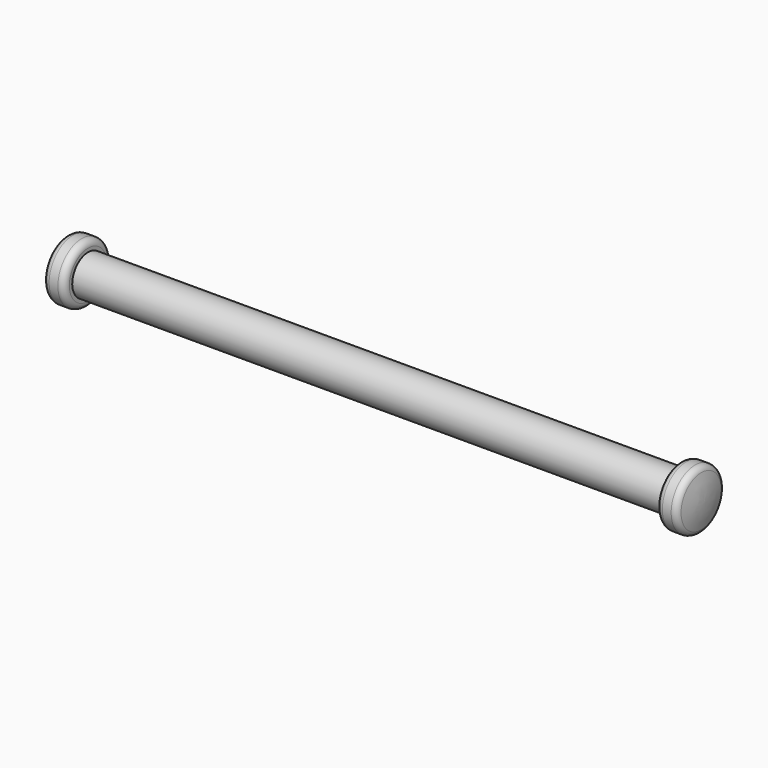
from build123d import *


with BuildPart() as f1:
    # F0 (on Front) → F1 (revolve)
    with BuildSketch(Plane.XZ):
        with BuildLine():
            Line((0, 3.175), (0, 0))
            Line((0, 0), (51.181, 0))
            ThreePointArc((51.181, 0), (51.046133, 2.024703), (50.643913, 4.01363))
            ThreePointArc((50.643913, 4.01363), (50.280446, 4.55386), (49.663659, 4.7625))
            Line((49.663659, 4.7625), (48.26, 4.7625))
            ThreePointArc((48.26, 4.7625), (47.54158, 4.46492), (47.244, 3.7465))
            Line((47.244, 3.7465), (47.244, 3.175))
            Line((47.244, 3.175), (0, 3.175))
        make_face()
    revolve(axis=Axis((25.5905, 0, 0), (1, 0, 0)))

    # F2: F1 across plane


with BuildPart() as f1_1:
    add(f1.part)
    add(f1.part.mirror(Plane.YZ))


solid = f1_1.part
